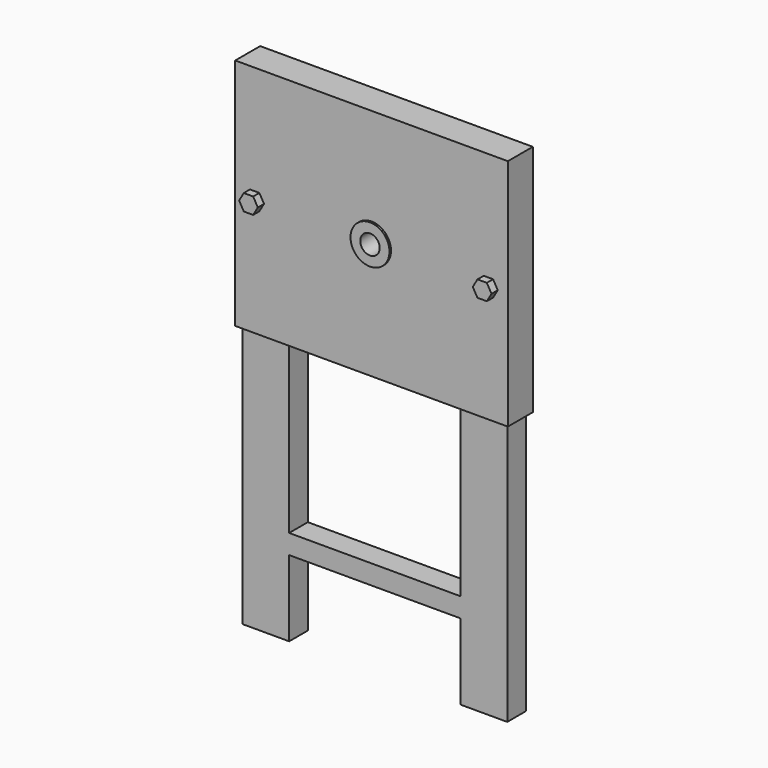
from build123d import *

# Parameters (mm, degrees)
F0_W      = 700
F0_H      = 600
F0_R      = 25
F1_DEPTH  = 40
F2_R      = 30
F3_DEPTH  = 40
F5_DEPTH  = 20
F6_W      = 120
F6_H      = 60
F7_DEPTH  = 675
F8_W      = 440
F8_H      = 50
F9_DEPTH  = 60
F10_R     = 50
F10_R_2   = 25
F11_DEPTH = 5


with BuildPart() as f1:
    # F0 (on Front) → F1 (new body, symmetric)
    with BuildSketch(Plane.XZ):
        Rectangle(F0_W, F0_H)
        Circle(F0_R, mode=Mode.SUBTRACT)
    extrude(amount=F1_DEPTH, both=True)

    # F2 (on face) → F3 (cut)
    with BuildSketch(Plane(origin=(0, 40, 0), x_dir=(-1, 0, 0), z_dir=(0, 1, 0))):
        with Locations((-300, 0)):
            Circle(F2_R)
        with Locations((300, 0)):
            Circle(F2_R)
    extrude(amount=-F3_DEPTH, mode=Mode.SUBTRACT)

    # F4 (on face) → F5 (join)
    with BuildSketch(Plane.XZ.offset(40)):
        Polygon((-312.029017, -20.834869), (-287.970983, -20.834869), (-275.941965, 0), (-287.970983, 20.834869), (-312.029017, 20.834869), (-324.058035, 0), align=None)
        Polygon((287.970983, 20.834869), (275.941965, 0), (287.970983, -20.834869), (312.029017, -20.834869), (324.058035, 0), (312.029017, 20.834869), align=None)
    extrude(amount=F5_DEPTH)

    # F6 (on face) → F7 (join)
    with BuildSketch(Plane(origin=(0, 0, -300), x_dir=(1, 0, 0), z_dir=(0, 0, -1))):
        with Locations((-280, -0.602355)):
            Rectangle(F6_W, F6_H)
        with Locations((280, -0.602355)):
            Rectangle(F6_W, F6_H)
    extrude(amount=F7_DEPTH)

    # F8 (on face) → F9 (join)
    with BuildSketch(Plane.XZ.offset(29.397645)):
        with Locations((0, -755)):
            Rectangle(F8_W, F8_H)
    extrude(amount=-F9_DEPTH)

    # F10 (on face) → F11 (join)
    with BuildSketch(Plane.XZ.offset(40)):
        Circle(F10_R)
        Circle(F10_R_2, mode=Mode.SUBTRACT)
    extrude(amount=F11_DEPTH)


solid = f1.part
